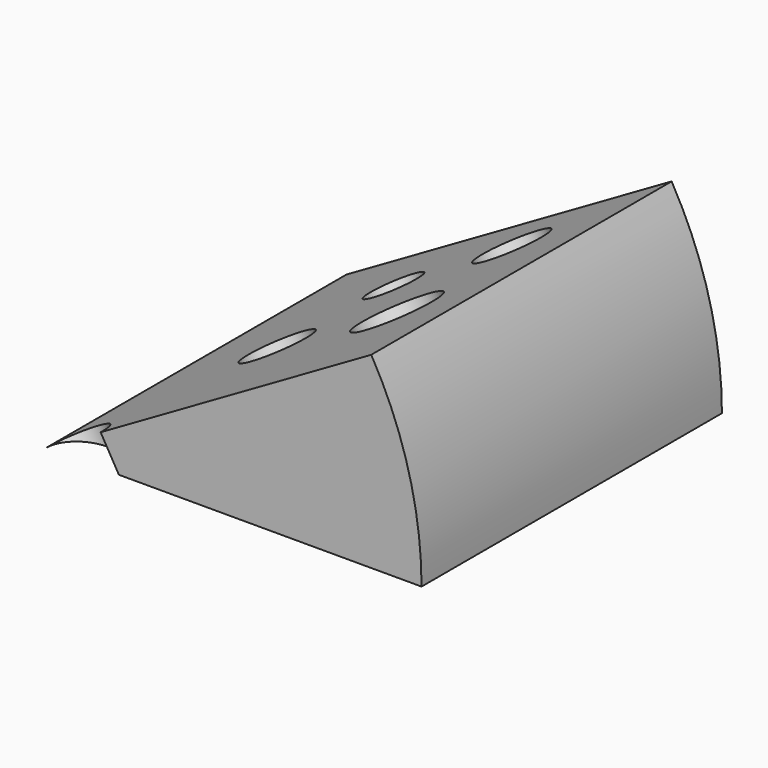
from build123d import *

# Parameters (mm, degrees)
F0_W     = 50.8
F0_H     = 50.8
F2_ANGLE = 30
F3_R     = 4.4543047917
F3_R_2   = 5.4106023653
F3_R_3   = 3.5561341864
F3_R_4   = 4.2648538947
F3_R_5   = 4.5772117107
F4_DEPTH = 25.4


with BuildPart() as f2:
    # F0 (on Top) → F2 (revolve)
    with BuildSketch(Plane.XY):
        with Locations((25.4, 25.4)):
            Rectangle(F0_W, F0_H)
    revolve(axis=Axis((0, 33.1785790622, 0), (0, -1, 0)), revolution_arc=F2_ANGLE)

    # F3 (on face) → F4 (cut)
    with BuildSketch(Plane(origin=(0, 0, 0), x_dir=(0.8660254038, 0, 0.5), z_dir=(-0.5, 0, 0.8660254038))):
        with Locations((17.0575939119, 20.6177476794)):
            Circle(F3_R)
        with Locations((35.7061028481, 20.6975117326)):
            Circle(F3_R_2)
        with Locations((20.5073915422, 36.5649498999)):
            Circle(F3_R_3)
        with Locations((4.2648538947, 0)):
            Circle(F3_R_4)
        with Locations((35.8419194818, 39.9655215442)):
            Circle(F3_R_5)
    extrude(amount=-F4_DEPTH, mode=Mode.SUBTRACT)


solid = f2.part
